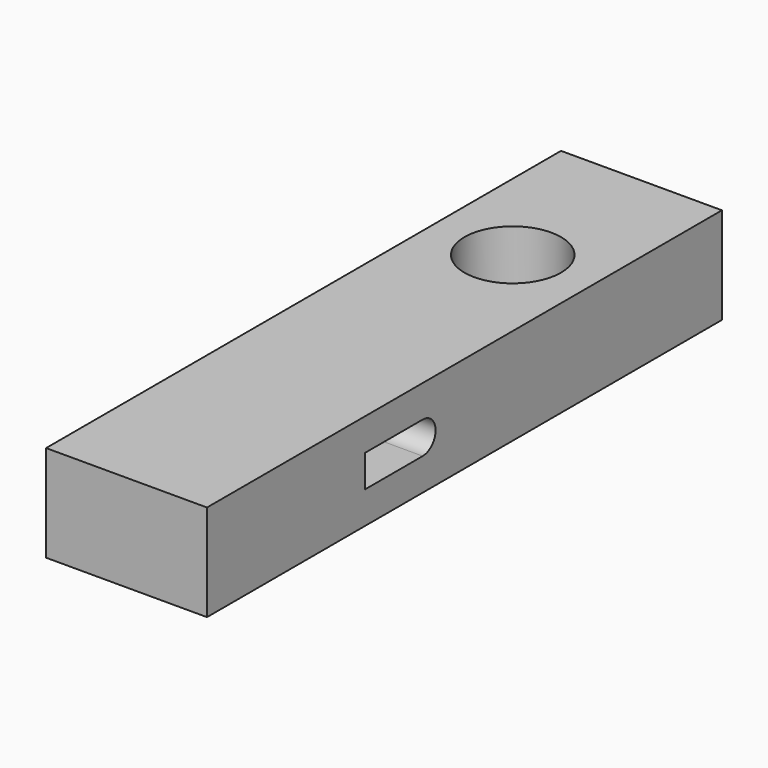
from build123d import *

# Parameters (mm, degrees)
F2_W     = 25
F2_H     = 100
F2_R     = 7.5
F0_DEPTH = 15
F1_DEPTH = 25


with BuildPart() as f0:
    # F2 (on Top) → F0 (new body)
    with BuildSketch(Plane.XY):
        Rectangle(F2_W, F2_H)
        with Locations((0, 25)):
            Circle(F2_R, mode=Mode.SUBTRACT)
    extrude(amount=F0_DEPTH)

    # F3 (on face) → F1 (cut, through all)
    with BuildSketch(Plane(origin=(-12.5, 0, 0), x_dir=(0, -1, 0), z_dir=(-1, 0, 0))):
        with BuildLine():
            Line((8.109305, 5), (19.336069, 5))
            Line((19.336069, 5), (19.336069, 10))
            Line((19.336069, 10), (8.109305, 10))
            ThreePointArc((8.109305, 10), (5.609305, 7.5), (8.109305, 5))
        make_face()
    extrude(amount=-F1_DEPTH, mode=Mode.SUBTRACT)


solid = f0.part
